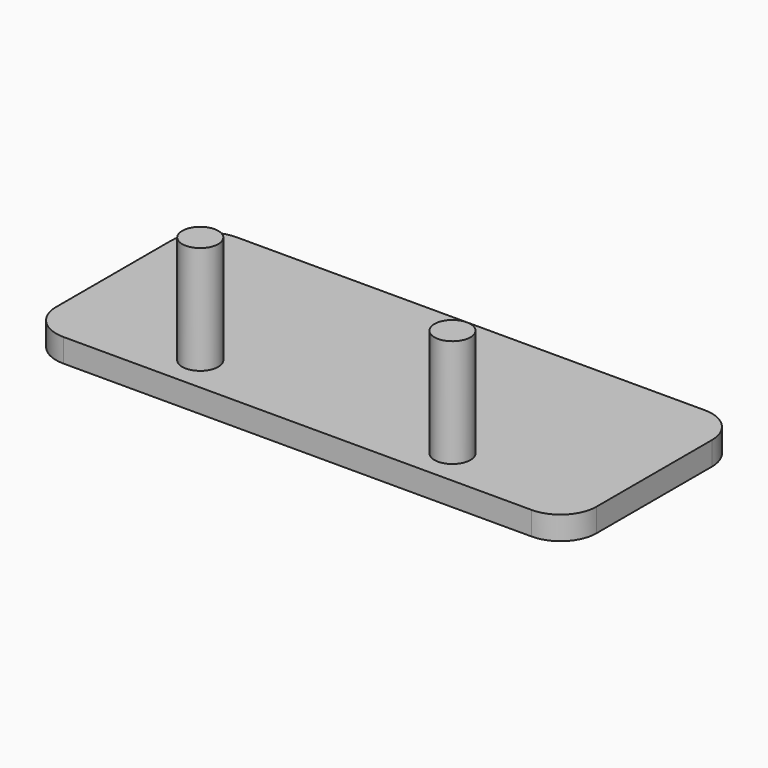
from build123d import *

# Parameters (mm, degrees)
F1_DEPTH = 4.1275
F2_R     = 3.175
F3_DEPTH = 19.05


with BuildPart() as f1:
    # F0 (on Top) → F1 (new body)
    with BuildSketch(Plane.XY):
        with BuildLine():
            ThreePointArc((0, 6.35), (1.859872, 1.859872), (6.35, 0))
            Line((6.35, 0), (88.9, 0))
            ThreePointArc((88.9, 0), (93.390128, 1.859872), (95.25, 6.35))
            Line((95.25, 6.35), (95.25, 31.75))
            ThreePointArc((95.25, 31.75), (93.390128, 36.240128), (88.9, 38.1))
            Line((88.9, 38.1), (6.35, 38.1))
            ThreePointArc((6.35, 38.1), (1.859872, 36.240128), (0, 31.75))
            Line((0, 31.75), (0, 6.35))
        make_face()
    extrude(amount=F1_DEPTH)

    # F2 (on face) → F3 (join)
    with BuildSketch(Plane.XY.offset(4.1275)):
        with Locations((25.4, 6.35)):
            Circle(F2_R)
        with Locations((69.85, 6.35)):
            Circle(F2_R)
    extrude(amount=F3_DEPTH)


solid = f1.part
